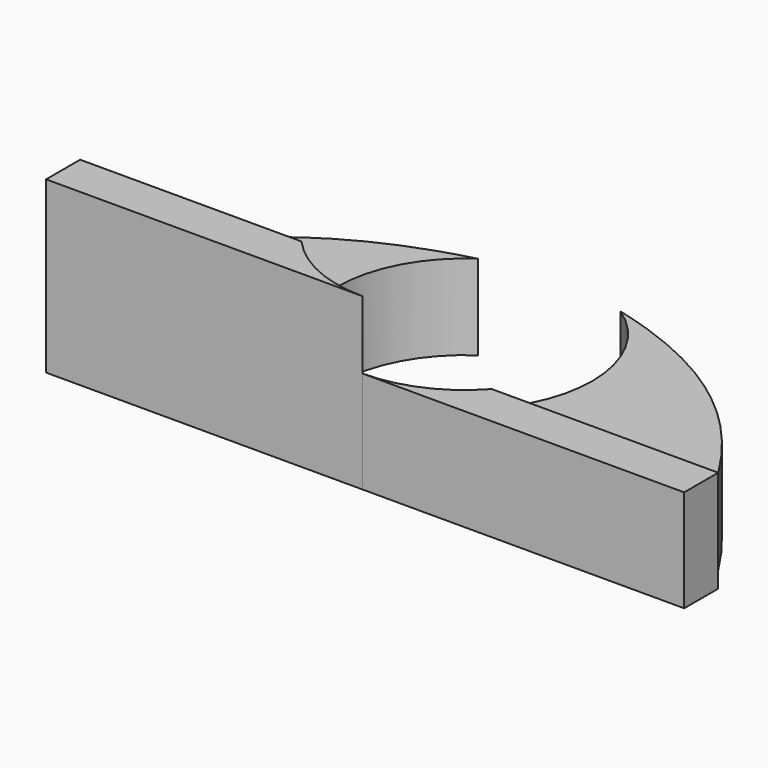
from build123d import *

# Parameters (mm, degrees)
F1_DEPTH = 12.7
F2_DEPTH = 25.4
F3_DEPTH = 15.24


with BuildPart() as f1:
    # F0 (on Top) → F1 (new body)
    with BuildSketch(Plane.XY):
        with BuildLine():
            ThreePointArc((10.6376512064, 15.8032552599), (18.9030181193, 2.361864937), (14.1990316571, -12.7))
            Line((14.1990316571, -12.7), (47.2384188172, -12.7))
            add(Edge.make_bspline(
                [(47.2384188172, -12.7), (39.1575731337, 1.8808549503), (28.2982736826, 11.2654352561), (10.6376512064, 15.8032552599)],
                knots=[0, 0, 0, 0, 46.3902117921, 46.3902117921, 46.3902117921, 46.3902117921], degree=3))
        make_face()
    extrude(amount=F1_DEPTH)



with BuildPart() as f1b:
    # F0 (on Top) → F1, piece 2 (new body)
    with BuildSketch(Plane.XY):
        with BuildLine():
            ThreePointArc((-14.1990316571, -12.7), (-18.9030181193, 2.361864937), (-10.6376512064, 15.8032552599))
            add(Edge.make_bspline(
                [(-47.2384188172, -12.7), (-39.1575731337, 1.8808549503), (-28.2982736826, 11.2654352561), (-10.6376512064, 15.8032552599)],
                knots=[0, 0, 0, 0, 46.3902117921, 46.3902117921, 46.3902117921, 46.3902117921], degree=3))
            Line((-47.2384188172, -12.7), (-14.1990316571, -12.7))
        make_face()
    extrude(amount=F1_DEPTH)


with BuildPart() as f2:
    # F0 (on Top) → F2 (new body)
    with BuildSketch(Plane.XY):
        with BuildLine():
            ThreePointArc((0, -19.05), (-7.7771299333, -17.3901912008), (-14.1990316571, -12.7))
            Line((-14.1990316571, -12.7), (-47.2384188172, -12.7))
            Line((-47.2384188172, -12.7), (-47.2384188172, -19.05))
            Line((-47.2384188172, -19.05), (0, -19.05))
        make_face()
    extrude(amount=F2_DEPTH)


with BuildPart() as f1_1:
    add(f1.part)

    add(f2.part)  # F3 merges F2
    # F0 (on Top) → F3 (join)
    with BuildSketch(Plane.XY):
        with BuildLine():
            ThreePointArc((14.1990316571, -12.7), (7.7771299333, -17.3901912008), (0, -19.05))
            Line((0, -19.05), (48.0115811828, -19.05))
            Line((48.0115811828, -19.05), (48.0115811828, -12.7))
            Line((48.0115811828, -12.7), (47.2384188172, -12.7))
            Line((47.2384188172, -12.7), (14.1990316571, -12.7))
        make_face()
    extrude(amount=F3_DEPTH)


solid = Compound([f1b.part, f1_1.part])
